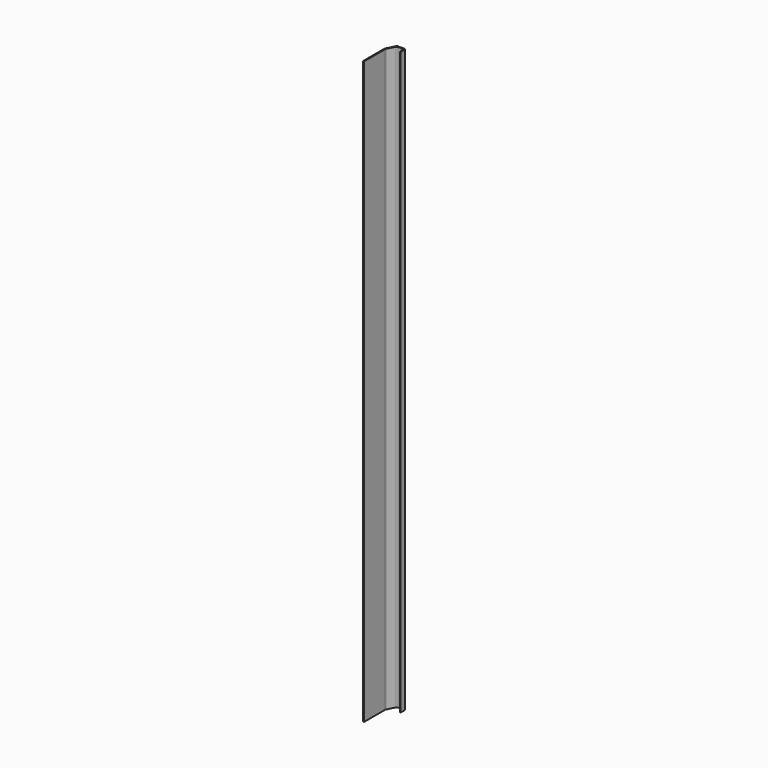
from build123d import *

# Parameters (mm, degrees)
F1_DEPTH = 2400


with BuildPart() as f1:
    # F0 (on Top) → F1 (new body)
    with BuildSketch(Plane.XY):
        with BuildLine():
            Line((-4, 0), (0, 0))
            Line((0, 0), (0, 108.361391))
            ThreePointArc((0, 108.361391), (0.16233, 109.74761), (0.640534, 111.058821))
            Line((0.640534, 111.058821), (16.564311, 142.69743))
            ThreePointArc((16.564311, 142.69743), (18.776125, 145.108061), (21.923777, 146))
            Line((21.923777, 146), (41, 146))
            ThreePointArc((41, 146), (45.242641, 144.242641), (47, 140))
            Line((47, 140), (47, 125))
            Line((47, 125), (51, 125))
            Line((51, 125), (51, 144))
            ThreePointArc((51, 144), (49.242641, 148.242641), (45, 150))
            Line((45, 150), (19.458927, 150))
            ThreePointArc((19.458927, 150), (16.311275, 149.108061), (14.099461, 146.69743))
            Line((14.099461, 146.69743), (-3.359466, 112.008665))
            ThreePointArc((-3.359466, 112.008665), (-3.83767, 110.697454), (-4, 109.311235))
            Line((-4, 109.311235), (-4, 0))
        make_face()
    extrude(amount=F1_DEPTH)


solid = f1.part
